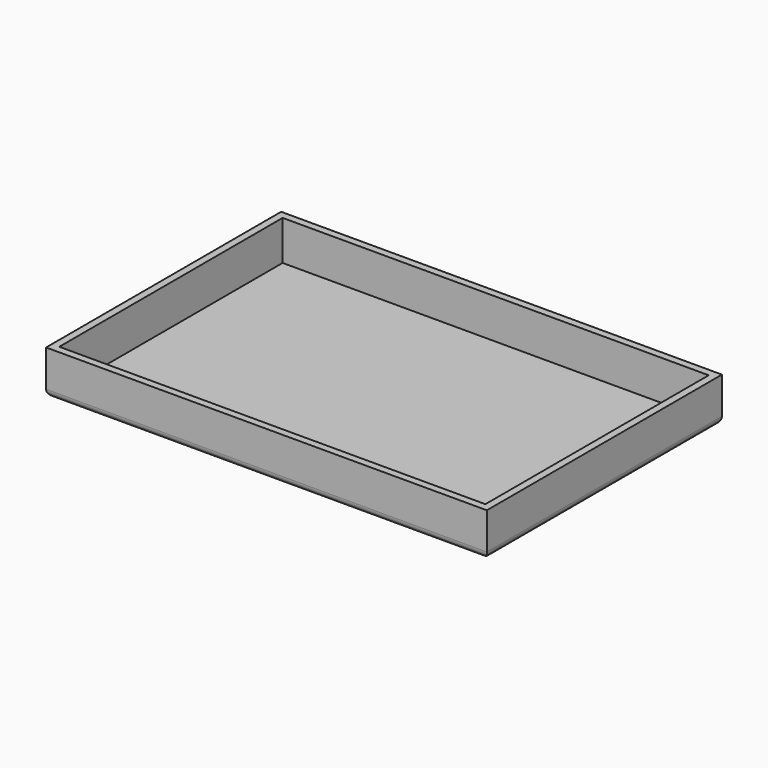
from build123d import *

# Parameters (mm, degrees)
F0_W     = 300
F0_H     = 200
F0_W_2   = 295
F0_H_2   = 195
F0_W_3   = 290
F0_H_3   = 190
F1_DEPTH = 30
F2_DEPTH = 3
F3_DEPTH = 3
F4_R     = 5


with BuildPart() as f1:
    # F0 (on Top) → F1 (new body)
    with BuildSketch(Plane.XY):
        Rectangle(F0_W, F0_H)
        Rectangle(F0_W_2, F0_H_2, mode=Mode.SUBTRACT)
        Rectangle(F0_W_2, F0_H_2)
        Rectangle(F0_W_3, F0_H_3, mode=Mode.SUBTRACT)
    extrude(amount=F1_DEPTH)

    # F0 (on Top) → F2 (cut)
    with BuildSketch(Plane.XY):
        Rectangle(F0_W_2, F0_H_2)
        Rectangle(F0_W_3, F0_H_3, mode=Mode.SUBTRACT)
    extrude(amount=F2_DEPTH, mode=Mode.SUBTRACT)

    # F0 (on Top) → F3 (join)
    with BuildSketch(Plane.XY):
        Rectangle(F0_W_2, F0_H_2)
        Rectangle(F0_W_3, F0_H_3, mode=Mode.SUBTRACT)
        Rectangle(F0_W_3, F0_H_3)
    extrude(amount=F3_DEPTH)

    # F4
    f4_edges = [f1.edges().sort_by_distance(p)[0] for p in [
        (150, 0, 0),
        (0, 100, 0),
        (-150, 0, 0),
        (0, -100, 0),
    ]]
    fillet(f4_edges, radius=F4_R)


solid = f1.part
